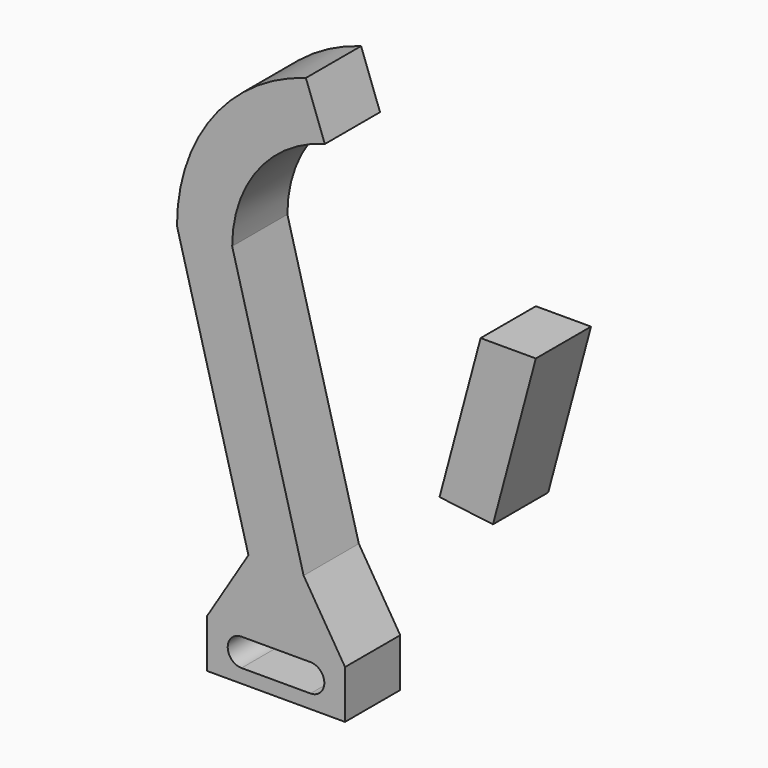
from build123d import *

# Parameters (mm, degrees)
F0_W     = 25.4
F0_H     = 5.08
F1_DEPTH = 25.4


with BuildPart() as f1:
    # F0 (on Front) → F1 (new body)
    with BuildSketch(Plane.XZ):
        with BuildLine():
            ThreePointArc((48.551648, 114.433848), (14.281163, 90.646732), (1.105111, 51.065364))
            Line((1.105111, 51.065364), (21.425111, 51.065364))
            ThreePointArc((21.425111, 51.065364), (30.939231, 78.984044), (55.521903, 95.283228))
            Line((55.521903, 95.283228), (48.551648, 114.433848))
        make_face()
        Polygon((133.185111, 51.065364), (112.865111, 51.065364), (97.744902, -5.364023), (117.407502, -7.817474), align=None)
        Polygon((1.105111, 51.065364), (27.401126, -47.0727), (47.721126, -47.0727), (21.425111, 51.065364), align=None)
        Polygon((47.721126, -47.0727), (27.401126, -47.0727), (12.161126, -71.752195), (24.861126, -71.752195), (34.013976, -71.752195), (50.261126, -71.752195), (54.333976, -71.752195), (62.961126, -71.752195), align=None)
        with BuildLine():
            Line((24.861126, -71.752195), (12.161126, -71.752195))
            Line((12.161126, -71.752195), (12.161126, -89.532195))
            Line((12.161126, -89.532195), (24.861126, -89.532195))
            Line((24.861126, -89.532195), (24.861126, -84.452195))
            ThreePointArc((24.861126, -84.452195), (19.781126, -79.372195), (24.861126, -74.292195))
            Line((24.861126, -74.292195), (24.861126, -71.752195))
        make_face()
        with Locations((37.561126, -86.992195)):
            Rectangle(F0_W, F0_H)
        with BuildLine():
            Line((62.961126, -89.532195), (62.961126, -71.752195))
            Line((62.961126, -71.752195), (54.333976, -71.752195))
            Line((54.333976, -71.752195), (50.261126, -71.752195))
            Line((50.261126, -71.752195), (50.261126, -74.292195))
            ThreePointArc((50.261126, -74.292195), (53.853228, -75.780093), (55.341126, -79.372195))
            ThreePointArc((55.341126, -79.372195), (53.853228, -82.964298), (50.261126, -84.452195))
            Line((50.261126, -84.452195), (50.261126, -89.532195))
            Line((50.261126, -89.532195), (62.961126, -89.532195))
        make_face()
        Polygon((34.013976, -71.752195), (24.861126, -71.752195), (24.861126, -74.292195), (50.261126, -74.292195), (50.261126, -71.752195), align=None)
    extrude(amount=F1_DEPTH)


solid = f1.part
